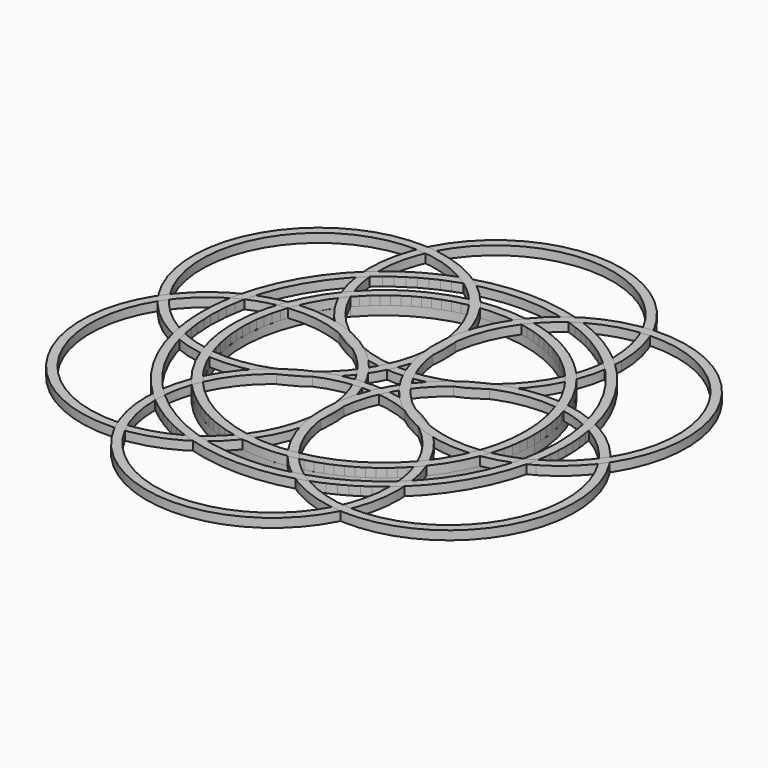
from build123d import *

# Parameters (mm, degrees)
F1_DEPTH = 5
F2_DEPTH = 5
F3_DEPTH = 5
F4_COUNT = 6


with BuildPart() as f1:
    # F0 (on Top) → F1 (new body)
    with BuildSketch(Plane.XY):
        with BuildLine():
            ThreePointArc((-66.4403281777, 53.0158730159), (-28.0853351849, -80.2260178966), (85, 0))
            ThreePointArc((85, 0), (80.2260178966, 28.0853351849), (66.4403281777, 53.0158730159))
            ThreePointArc((66.4403281777, 53.0158730159), (65.3556954071, 50.3740316842), (64.1660654132, 47.7777777778))
            ThreePointArc((64.1660654132, 47.7777777778), (75.9384133132, 25.1665926075), (80, 0))
            ThreePointArc((80, 0), (-25.1665926075, -75.9384133132), (-64.1660654132, 47.7777777778))
            ThreePointArc((-64.1660654132, 47.7777777778), (-65.3556954071, 50.3740316842), (-66.4403281777, 53.0158730159))
        make_face()
        with BuildLine():
            ThreePointArc((-62.7090607796, 57.380952381), (-64.6115674355, 55.2299316813), (-66.4403281777, 53.0158730159))
            ThreePointArc((-66.4403281777, 53.0158730159), (-65.3556954071, 50.3740316842), (-64.1660654132, 47.7777777778))
            ThreePointArc((-64.1660654132, 47.7777777778), (-62.4573054201, 49.9908491592), (-60.6722543588, 52.1428571429))
            ThreePointArc((-60.6722543588, 52.1428571429), (-61.7462277532, 54.7402965814), (-62.7090607796, 57.380952381))
        make_face()
        with BuildLine():
            ThreePointArc((60.6722543588, 52.1428571429), (61.7462277532, 54.7402965814), (62.7090607796, 57.380952381))
            ThreePointArc((62.7090607796, 57.380952381), (0, 85), (-62.7090607796, 57.380952381))
            ThreePointArc((-62.7090607796, 57.380952381), (-61.7462277532, 54.7402965814), (-60.6722543588, 52.1428571429))
            ThreePointArc((-60.6722543588, 52.1428571429), (0, 80), (60.6722543588, 52.1428571429))
        make_face()
        with BuildLine():
            ThreePointArc((64.1660654132, 47.7777777778), (65.3556954071, 50.3740316842), (66.4403281777, 53.0158730159))
            ThreePointArc((66.4403281777, 53.0158730159), (64.6115674355, 55.2299316813), (62.7090607796, 57.380952381))
            ThreePointArc((62.7090607796, 57.380952381), (61.7462277532, 54.7402965814), (60.6722543588, 52.1428571429))
            ThreePointArc((60.6722543588, 52.1428571429), (62.4573054201, 49.9908491592), (64.1660654132, 47.7777777778))
        make_face()
    extrude(amount=-F1_DEPTH)


with BuildPart() as f2:
    # F0 (on Top) → F2 (new body)
    with BuildSketch(Plane.XY):
        with BuildLine():
            ThreePointArc((62.7090607796, 57.380952381), (64.6115674355, 55.2299316813), (66.4403281777, 53.0158730159))
            ThreePointArc((66.4403281777, 53.0158730159), (70.0372610924, 65.6601352693), (71.25, 78.75))
            ThreePointArc((71.25, 78.75), (-13.0898647307, 148.7872610924), (-66.4403281777, 53.0158730159))
            ThreePointArc((-66.4403281777, 53.0158730159), (-64.6115674355, 55.2299316813), (-62.7090607796, 57.380952381))
            ThreePointArc((-62.7090607796, 57.380952381), (-64.7611892291, 64.7839386501), (-65.9425372159, 72.3747129064))
            ThreePointArc((-65.9425372159, 72.3747129064), (-66.173089661, 75.5586515824), (-66.25, 78.75))
            ThreePointArc((-66.25, 78.75), (0, 145), (66.25, 78.75))
            ThreePointArc((66.25, 78.75), (66.173089661, 75.5586515824), (65.9425372159, 72.3747129064))
            ThreePointArc((65.9425372159, 72.3747129064), (64.7611892291, 64.7839386501), (62.7090607796, 57.380952381))
        make_face()
        with BuildLine():
            ThreePointArc((-62.7090607796, 57.380952381), (-64.6115674355, 55.2299316813), (-66.4403281777, 53.0158730159))
            ThreePointArc((-66.4403281777, 53.0158730159), (-65.3556954071, 50.3740316842), (-64.1660654132, 47.7777777778))
            ThreePointArc((-64.1660654132, 47.7777777778), (-62.4573054201, 49.9908491592), (-60.6722543588, 52.1428571429))
            ThreePointArc((-60.6722543588, 52.1428571429), (-61.7462277532, 54.7402965814), (-62.7090607796, 57.380952381))
        make_face()
        with BuildLine():
            ThreePointArc((-64.1660654132, 47.7777777778), (0, 7.5), (64.1660654132, 47.7777777778))
            ThreePointArc((64.1660654132, 47.7777777778), (62.4573054201, 49.9908491592), (60.6722543588, 52.1428571429))
            ThreePointArc((60.6722543588, 52.1428571429), (0, 12.5), (-60.6722543588, 52.1428571429))
            ThreePointArc((-60.6722543588, 52.1428571429), (-62.4573054201, 49.9908491592), (-64.1660654132, 47.7777777778))
        make_face()
        with BuildLine():
            ThreePointArc((64.1660654132, 47.7777777778), (65.3556954071, 50.3740316842), (66.4403281777, 53.0158730159))
            ThreePointArc((66.4403281777, 53.0158730159), (64.6115674355, 55.2299316813), (62.7090607796, 57.380952381))
            ThreePointArc((62.7090607796, 57.380952381), (61.7462277532, 54.7402965814), (60.6722543588, 52.1428571429))
            ThreePointArc((60.6722543588, 52.1428571429), (62.4573054201, 49.9908491592), (64.1660654132, 47.7777777778))
        make_face()
    extrude(amount=F2_DEPTH)


with BuildPart() as f3:
    # F0 (on Top) → F3 (new body)
    with BuildSketch(Plane.XY):
        with BuildLine():
            ThreePointArc((-65.9425372159, 72.3747129064), (0, 97.9107618332), (65.9425372159, 72.3747129064))
            ThreePointArc((65.9425372159, 72.3747129064), (66.173089661, 75.5586515824), (66.25, 78.75))
            ThreePointArc((66.25, 78.75), (0, 102.9107623138), (-66.25, 78.75))
            ThreePointArc((-66.25, 78.75), (-66.173089661, 75.5586515824), (-65.9425372159, 72.3747129064))
        make_face()
    extrude(amount=F3_DEPTH)


with BuildPart() as f3b:
    # F0 (on Top) → F3, piece 2 (new body)
    with BuildSketch(Plane.XY):
        with BuildLine():
            ThreePointArc((60.6722543588, 52.1428571429), (61.7462277532, 54.7402965814), (62.7090607796, 57.380952381))
            ThreePointArc((62.7090607796, 57.380952381), (0, 85), (-62.7090607796, 57.380952381))
            ThreePointArc((-62.7090607796, 57.380952381), (-61.7462277532, 54.7402965814), (-60.6722543588, 52.1428571429))
            ThreePointArc((-60.6722543588, 52.1428571429), (0, 80), (60.6722543588, 52.1428571429))
        make_face()
    extrude(amount=F3_DEPTH)


with BuildPart() as f4_1:
    # F4: instance of F2
    add(f2.part.rotate(Axis((0, 0, 0), (0, 0, 1)), 1 * 360 / F4_COUNT))


with BuildPart() as f4_2:
    # F4: instance of F2
    add(f2.part.rotate(Axis((0, 0, 0), (0, 0, 1)), 2 * 360 / F4_COUNT))


with BuildPart() as f4_3:
    # F4: instance of F2
    add(f2.part.rotate(Axis((0, 0, 0), (0, 0, 1)), 3 * 360 / F4_COUNT))


with BuildPart() as f4_4:
    # F4: instance of F2
    add(f2.part.rotate(Axis((0, 0, 0), (0, 0, 1)), 4 * 360 / F4_COUNT))


with BuildPart() as f4_5:
    # F4: instance of F2
    add(f2.part.rotate(Axis((0, 0, 0), (0, 0, 1)), 5 * 360 / F4_COUNT))


with BuildPart() as f4_6:
    # F4: instance of F3
    add(f3.part.rotate(Axis((0, 0, 0), (0, 0, 1)), 1 * 360 / F4_COUNT))


with BuildPart() as f4_7:
    # F4: instance of F3
    add(f3.part.rotate(Axis((0, 0, 0), (0, 0, 1)), 2 * 360 / F4_COUNT))


with BuildPart() as f4_8:
    # F4: instance of F3
    add(f3.part.rotate(Axis((0, 0, 0), (0, 0, 1)), 3 * 360 / F4_COUNT))


with BuildPart() as f4_9:
    # F4: instance of F3
    add(f3.part.rotate(Axis((0, 0, 0), (0, 0, 1)), 4 * 360 / F4_COUNT))


with BuildPart() as f4_10:
    # F4: instance of F3
    add(f3.part.rotate(Axis((0, 0, 0), (0, 0, 1)), 5 * 360 / F4_COUNT))


with BuildPart() as f4_11:
    # F4: instance of F3b
    add(f3b.part.rotate(Axis((0, 0, 0), (0, 0, 1)), 1 * 360 / F4_COUNT))


with BuildPart() as f4_12:
    # F4: instance of F3b
    add(f3b.part.rotate(Axis((0, 0, 0), (0, 0, 1)), 2 * 360 / F4_COUNT))


with BuildPart() as f4_13:
    # F4: instance of F3b
    add(f3b.part.rotate(Axis((0, 0, 0), (0, 0, 1)), 3 * 360 / F4_COUNT))


with BuildPart() as f4_14:
    # F4: instance of F3b
    add(f3b.part.rotate(Axis((0, 0, 0), (0, 0, 1)), 4 * 360 / F4_COUNT))


with BuildPart() as f4_15:
    # F4: instance of F3b
    add(f3b.part.rotate(Axis((0, 0, 0), (0, 0, 1)), 5 * 360 / F4_COUNT))


solid = Compound([f1.part, f2.part, f3.part, f3b.part, f4_1.part, f4_2.part, f4_3.part, f4_4.part, f4_5.part, f4_6.part, f4_7.part, f4_8.part, f4_9.part, f4_10.part, f4_11.part, f4_12.part, f4_13.part, f4_14.part, f4_15.part])
